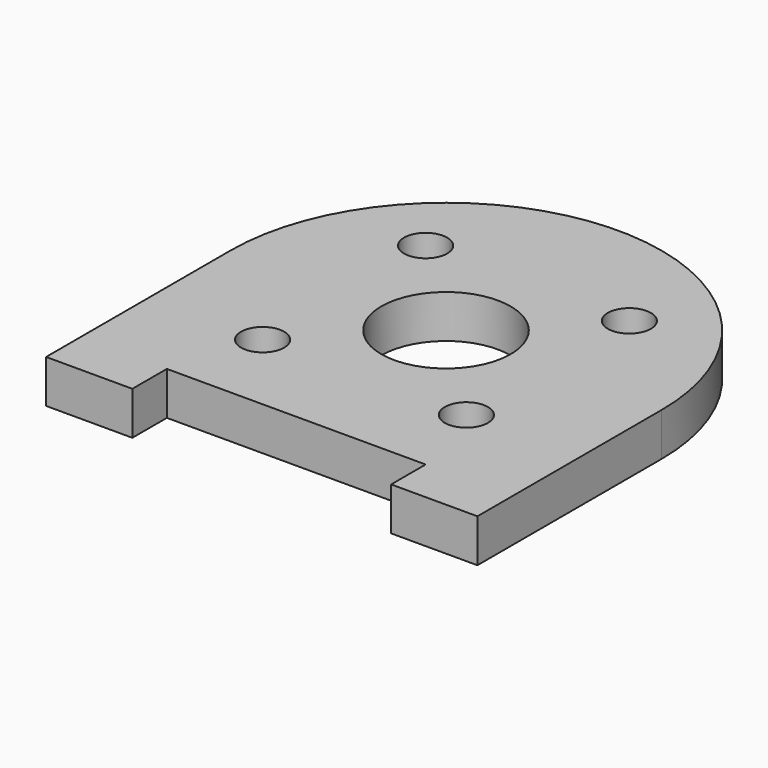
from build123d import *

# Parameters (mm, degrees)
F0_R     = 3.175
F1_DEPTH = 6.35


with BuildPart() as f1:
    # F0 (on Top) → F1 (new body)
    with BuildSketch(Plane.XY):
        with BuildLine():
            Line((31.75, -16.951759), (31.75, 16.951759))
            Line((31.75, 16.951759), (9.525, 16.951759))
            ThreePointArc((9.525, 16.951759), (0, 7.426759), (-9.525, 16.951759))
            Line((-9.525, 16.951759), (-31.75, 16.951759))
            Line((-31.75, 16.951759), (-31.75, -16.951759))
            Line((-31.75, -16.951759), (-19.05, -16.951759))
            Line((-19.05, -16.951759), (-19.05, -10.601759))
            Line((-19.05, -10.601759), (19.05, -10.601759))
            Line((19.05, -10.601759), (19.05, -16.951759))
            Line((19.05, -16.951759), (31.75, -16.951759))
        make_face()
        with Locations((-14.9987, 1.953059)):
            Circle(F0_R, mode=Mode.SUBTRACT)
        with Locations((14.9987, 1.953059)):
            Circle(F0_R, mode=Mode.SUBTRACT)
        with BuildLine():
            Line((9.525, 16.951759), (31.75, 16.951759))
            ThreePointArc((31.75, 16.951759), (0, 48.701759), (-31.75, 16.951759))
            Line((-31.75, 16.951759), (-9.525, 16.951759))
            ThreePointArc((-9.525, 16.951759), (0, 26.476759), (9.525, 16.951759))
        make_face()
        with Locations((-14.9987, 31.950459)):
            Circle(F0_R, mode=Mode.SUBTRACT)
        with Locations((14.9987, 31.950459)):
            Circle(F0_R, mode=Mode.SUBTRACT)
    extrude(amount=F1_DEPTH)


solid = f1.part
